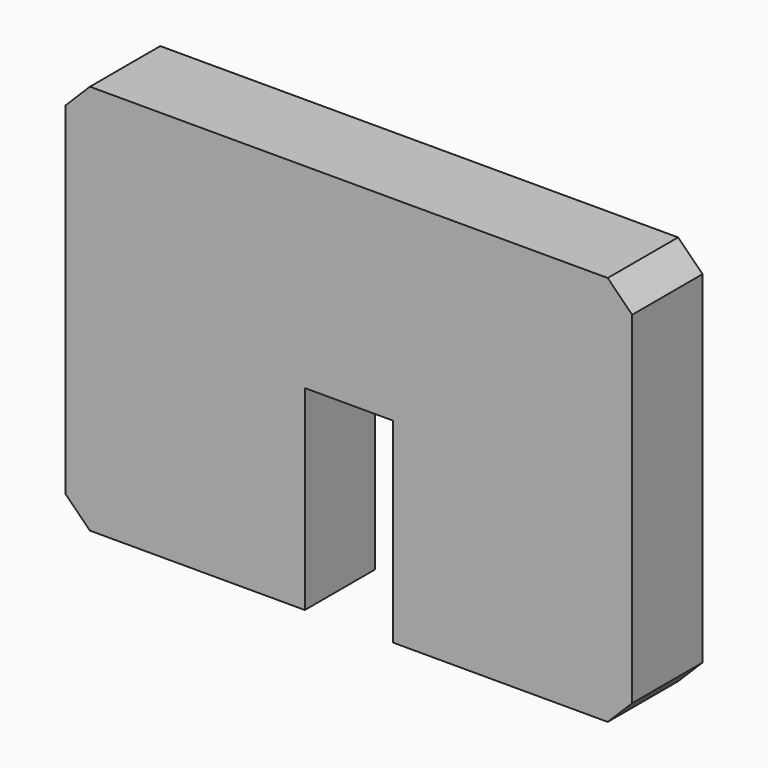
from build123d import *

# Parameters (mm, degrees)
F1_DEPTH = 18
F2_SIZE  = 5


with BuildPart() as f1:
    # F0 (on Front) → F1 (new body)
    with BuildSketch(Plane.XZ):
        Polygon((-58, 80), (-58, 0), (-9, 0), (-9, 40), (9, 40), (9, 0), (58, 0), (58, 80), align=None)
    extrude(amount=F1_DEPTH)

    # F2
    f2_edges = [f1.edges().sort_by_distance(p)[0] for p in [
        (-58, -9, 80),
        (-58, -9, 0),
        (58, -9, 80),
        (58, -9, 0),
    ]]
    chamfer(f2_edges, length=F2_SIZE)


solid = f1.part
